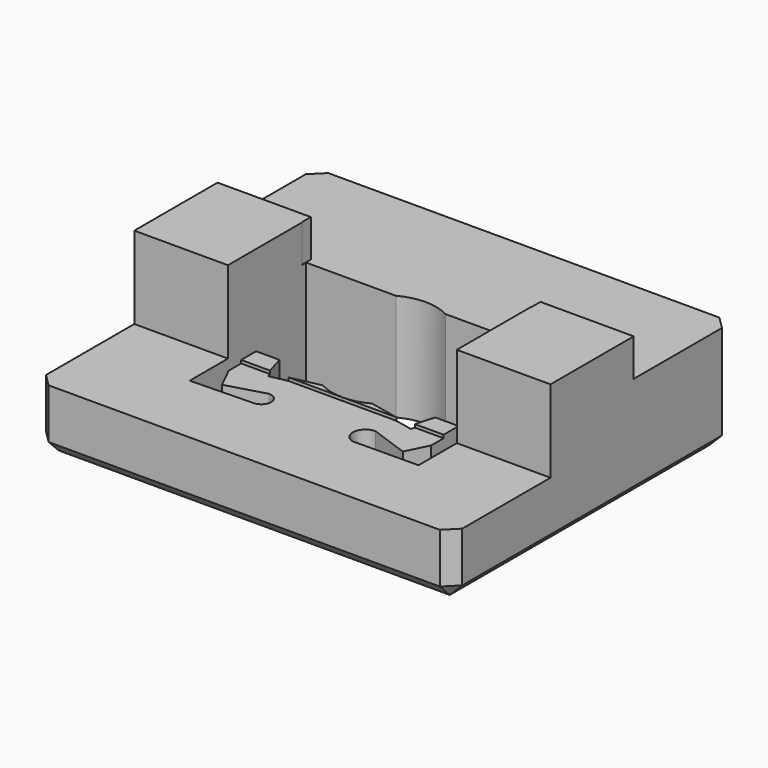
from build123d import *

# Parameters (mm, degrees)
PAD_DEPTH             = 10
POCKET_DEPTH          = 10
SKETCH009_W           = 3.913781
SKETCH009_H           = 10.54203
POCKET001_DEPTH       = 2
POLARPATTERN002_COUNT = 2
CHAMFER_SIZE          = 0.6
SKETCH011_W           = 0.658057
SKETCH011_H           = 11.036716
POCKET002_DEPTH       = 5
BODY_PLACEMENT_ANGLE  = 90


with BuildPart() as part:
    # Sketch001 → Pad (new body, symmetric)
    with BuildSketch(Plane.XZ):
        Polygon((-8.4, 0), (-8.4, -5.15), (8.4, -5.15), (8.4, -2.15), (2.5, -2.15), (2.5, 0), (2.5, 1.8), (-2.5, 1.8), (-2.5, 0), align=None)
    extrude(amount=PAD_DEPTH, both=True)

    # Sketch → Pocket (cut, symmetric)
    with BuildSketch(Plane.XY):
        with BuildLine():
            ThreePointArc((-2.2, 1.187434), (-2.5, 0), (-2.2, -1.187434))
            Line((-2.2, -1.187434), (-2.2, -5.5))
            Line((-2.2, -5.5), (4.8, -5.5))
            Line((4.722171, -2.539952), (4.8, -5.5))
            ThreePointArc((4.722171, -2.539952), (4.263597, -2.023905), (3.771176, -2.507761))
            Line((4.3, -4.344865), (3.771176, -2.507761))
            Line((3.244578, -4.864673), (4.3, -4.344865))
            Line((1.6, -4.864673), (3.244578, -4.864673))
            Line((1.6, -3.743474), (1.6, -4.864673))
            Line((2.677439, -3.432031), (1.6, -3.743474))
            Line((2.2, -1.187434), (2.677439, -3.432031))
            ThreePointArc((2.2, -1.187434), (2.5, 0), (2.2, 1.187434))
            Line((2.2, 1.187434), (2.677439, 3.432031))
            Line((2.677439, 3.432031), (1.6, 3.743474))
            Line((1.6, 3.743474), (1.6, 4.864673))
            Line((1.6, 4.864673), (3.244578, 4.864673))
            Line((3.244578, 4.864673), (4.3, 4.344865))
            Line((4.3, 4.344865), (3.650118, 2.519747))
            ThreePointArc((3.650118, 2.519747), (4.169872, 1.907371), (4.829785, 2.365262))
            Line((4.829785, 2.365262), (4.8, 5.5))
            Line((-2.2, 5.5), (4.8, 5.5))
            Line((-2.2, 1.187434), (-2.2, 5.5))
        make_face()
    extrude(amount=POCKET_DEPTH, both=True, mode=Mode.SUBTRACT)

    # Sketch009 → Pocket001 (cut, symmetric)
    with BuildSketch(Plane.XY):
        with Locations((3.133439, 0)):
            Rectangle(SKETCH009_W, SKETCH009_H)
    extrude(amount=POCKET001_DEPTH, both=True, mode=Mode.SUBTRACT)

    # Sphere001 → Sphere001 (revolve, cut)
    with BuildSketch(Plane(origin=(5, 0, -5.15), x_dir=(1, 0, 0), z_dir=(0, 1, 0))):
        with BuildLine():
            ThreePointArc((0, -1), (1, 0), (0, 1))
            Line((0, 1), (0, -1))
        make_face()
    sphere001 = revolve(axis=Axis((5, 0, -5.15), (0, 0, -1)), mode=Mode.SUBTRACT)

    # PolarPattern002: Sphere001 ×2 about axis
    polarpattern002_axis = Axis((0, 0, 0), (0, 0, 1))
    for i in range(1, POLARPATTERN002_COUNT):
        add(sphere001.rotate(polarpattern002_axis, i * 360 / POLARPATTERN002_COUNT), mode=Mode.SUBTRACT)

    # Chamfer
    chamfer_edges = [part.edges().sort_by_distance(p)[0] for p in [
        (8.4, 0, -5.15),
        (0, -10, -5.15),
        (0, 10, -5.15),
        (-8.4, 0, -5.15),
        (8.4, -10, -3.65),
        (8.4, 10, -3.65),
        (-8.4, -10, -2.575),
        (-8.4, 10, -2.575),
    ]]
    chamfer(chamfer_edges, length=CHAMFER_SIZE)

    # Sketch011 → Pocket002 (cut)
    with BuildSketch(Plane.XY):
        with Locations((-2.269595, 0)):
            Rectangle(SKETCH011_W, SKETCH011_H)
    extrude(amount=POCKET002_DEPTH, mode=Mode.SUBTRACT)


with BuildPart() as part_1:
    # Body placement: moved
    add(part.part.moved(Location((0, 0, -10))).rotate(Axis((0, 0, -10), (0, 0, -1)), BODY_PLACEMENT_ANGLE))


solid = part_1.part
